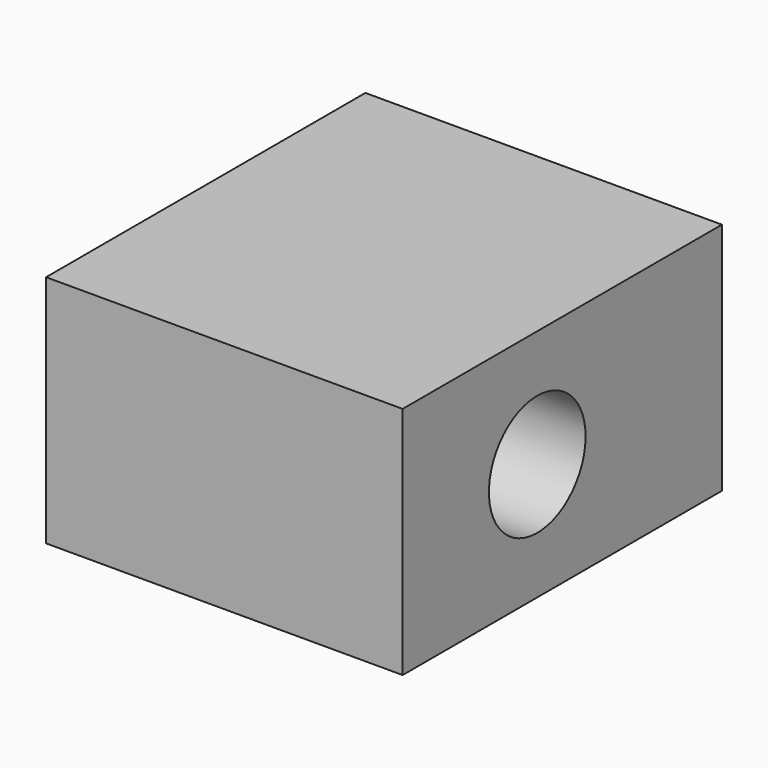
from build123d import *

# Parameters (mm, degrees)
F0_W     = 76.474682
F0_H     = 44.904424
F1_DEPTH = 68.326
F2_R     = 11.577224
F3_DEPTH = 188.722


with BuildPart() as f1:
    # F0 (on Right) → F1 (new body)
    with BuildSketch(Plane.YZ):
        with Locations((-8.790668, 28.967456)):
            Rectangle(F0_W, F0_H)
    extrude(amount=F1_DEPTH)

    # F2 (on face) → F3 (cut)
    with BuildSketch(Plane.YZ.offset(68.326)):
        with Locations((-14.789307, 28.967456)):
            Circle(F2_R)
    extrude(amount=-F3_DEPTH, mode=Mode.SUBTRACT)


solid = f1.part
